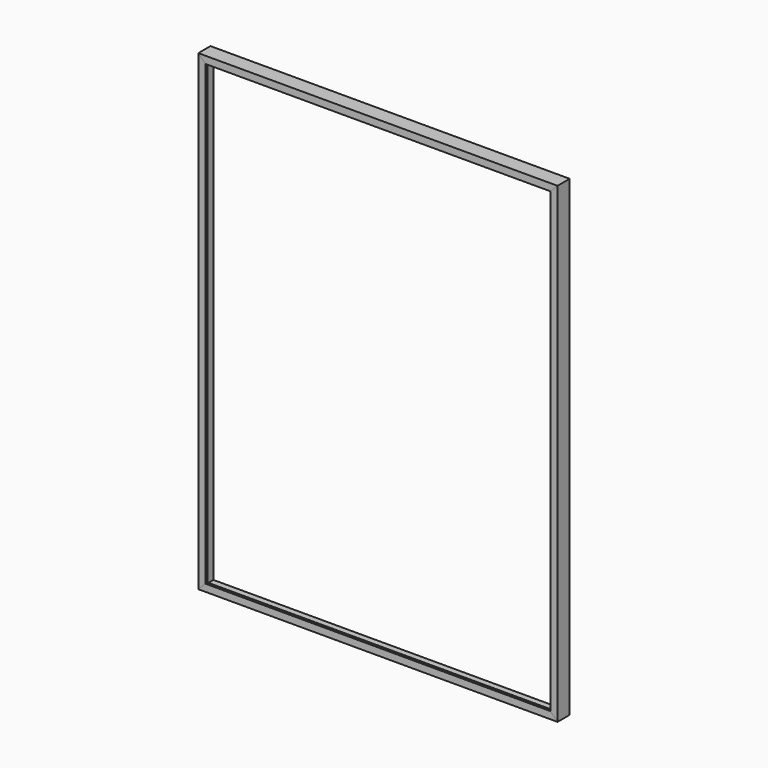
from build123d import *

# Parameters (mm, degrees)
F2_DEPTH = 36.83
F4_DEPTH = 36.83
F5_W     = 855.472
F5_H     = 1128.522
F6_DEPTH = 30.48


with BuildPart() as f2:
    # F1 (on face) → F2 (new body)
    with BuildSketch(Plane.XZ):
        Polygon((-434.975, 571.5), (-434.975, -571.5), (-417.576, -554.101), (-417.576, 554.101), align=None)
        Polygon((417.576, -554.101), (434.975, -571.5), (434.975, 571.5), (417.576, 554.101), align=None)
    extrude(amount=F2_DEPTH)


with BuildPart() as f4:
    # F3 (on Front) → F4 (new body, through all)
    with BuildSketch(Plane.XZ):
        Polygon((434.975, 571.5), (-434.975, 571.5), (-417.576, 554.101), (417.576, 554.101), align=None)
        Polygon((-417.576, -554.101), (-434.975, -571.5), (434.975, -571.5), (417.576, -554.101), align=None)
    extrude(amount=F4_DEPTH)


with BuildPart() as f6_tool:
    # F5 (on face) → F6 (new body)
    with BuildSketch(Plane.XZ):
        Rectangle(F5_W, F5_H)
    extrude(amount=F6_DEPTH)


with BuildPart() as f2_1:
    add(f2.part)

    # F6: cut by f6_tool
    add(f6_tool.part, mode=Mode.SUBTRACT)


with BuildPart() as f4_1:
    add(f4.part)

    # F6: cut by f6_tool
    add(f6_tool.part, mode=Mode.SUBTRACT)


solid = Compound([f2_1.part, f4_1.part])
